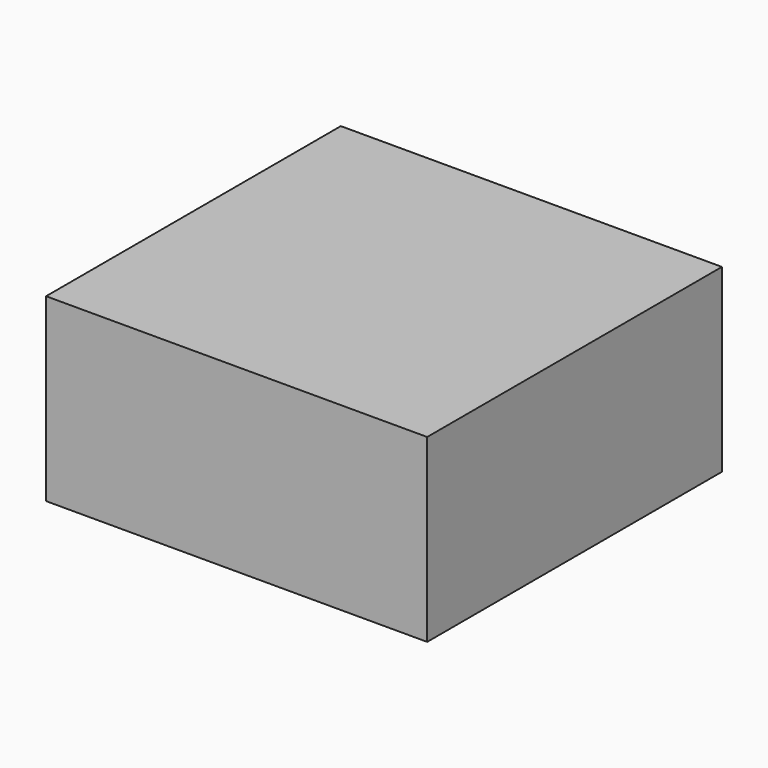
from build123d import *

# Parameters (mm, degrees)
F1_DEPTH = 114.3
F3_W     = 95.25
F3_H     = 45.085
F4_DEPTH = 3.175
F6_D     = 27.432
F6_DEPTH = 3.175
F7_DEPTH = 3.175
F8_W     = 95.25
F8_H     = 25.4
F9_DEPTH = 45.086


with BuildPart() as f1:
    # F0 (on Front) → F1 (new body)
    with BuildSketch(Plane.XZ):
        Polygon((-38.070478, -17.257856), (-34.895478, -17.257856), (-34.895478, 24.652144), (54.004522, 24.652144), (54.004522, -17.257856), (57.179522, -17.257856), (57.179522, 27.827144), (-38.070478, 27.827144), align=None)
    extrude(amount=F1_DEPTH)

    # F3 (on face) + F0 (on Front) → F4 (join)
    with BuildSketch(Plane.XZ.offset(114.3)):
        with Locations((9.554522, 5.284644)):
            Rectangle(F3_W, F3_H)
    with BuildSketch(Plane.XZ):
        Polygon((-38.070478, -17.257856), (-34.895478, -17.257856), (-34.895478, 24.652144), (54.004522, 24.652144), (54.004522, -17.257856), (57.179522, -17.257856), (57.179522, 27.827144), (-38.070478, 27.827144), align=None)
        with BuildLine():
            Line((-34.895478, 24.652144), (-34.895478, -17.257856))
            Line((-34.895478, -17.257856), (-32.609478, -17.257856))
            Line((-32.609478, -17.257856), (-32.609478, 9.669455))
            ThreePointArc((-32.609478, 9.669455), (-18.893478, 21.604144), (-5.177478, 9.669455))
            Line((-5.177478, 9.669455), (-5.177478, -17.257856))
            Line((-5.177478, -17.257856), (54.004522, -17.257856))
            Line((54.004522, -17.257856), (54.004522, 24.652144))
            Line((54.004522, 24.652144), (-34.895478, 24.652144))
        make_face()
        with BuildLine():
            Line((-32.609478, 9.669455), (-32.609478, -17.257856))
            Line((-32.609478, -17.257856), (-5.177478, -17.257856))
            Line((-5.177478, -17.257856), (-5.177478, 9.669455))
            ThreePointArc((-5.177478, 9.669455), (-18.893478, 21.604144), (-32.609478, 9.669455))
        make_face()
    extrude(amount=F4_DEPTH)

    # F6
    with Locations(Plane(origin=(0, 0, 0), x_dir=(1, 0, 0), z_dir=(0, 1, 0))):
        with Locations((-21.159343, 10.779062)):
            Hole(F6_D / 2, depth=F6_DEPTH)

    # F5 (on face) → F7 (cut)
    with BuildSketch(Plane.XZ):
        with BuildLine():
            Line((-34.875343, 10.779062), (-7.443343, 10.779062))
            ThreePointArc((-7.443343, 10.779062), (-21.159343, 24.495062), (-34.875343, 10.779062))
        make_face()
        with BuildLine():
            Line((-7.443343, -18.13873), (-7.443343, 10.779062))
            ThreePointArc((-7.443343, 10.779062), (-21.159343, -2.936938), (-34.875343, 10.779062))
            Line((-34.875343, 10.779062), (-34.875343, -18.13873))
            Line((-34.875343, -18.13873), (-7.443343, -18.13873))
        make_face()
    extrude(amount=F7_DEPTH, mode=Mode.SUBTRACT)

    # F8 (on face) → F9 (cut, through all)
    with BuildSketch(Plane.XY.offset(27.827144)):
        with Locations((9.554522, -12.7)):
            Rectangle(F8_W, F8_H)
    extrude(amount=-F9_DEPTH, mode=Mode.SUBTRACT)


solid = f1.part
